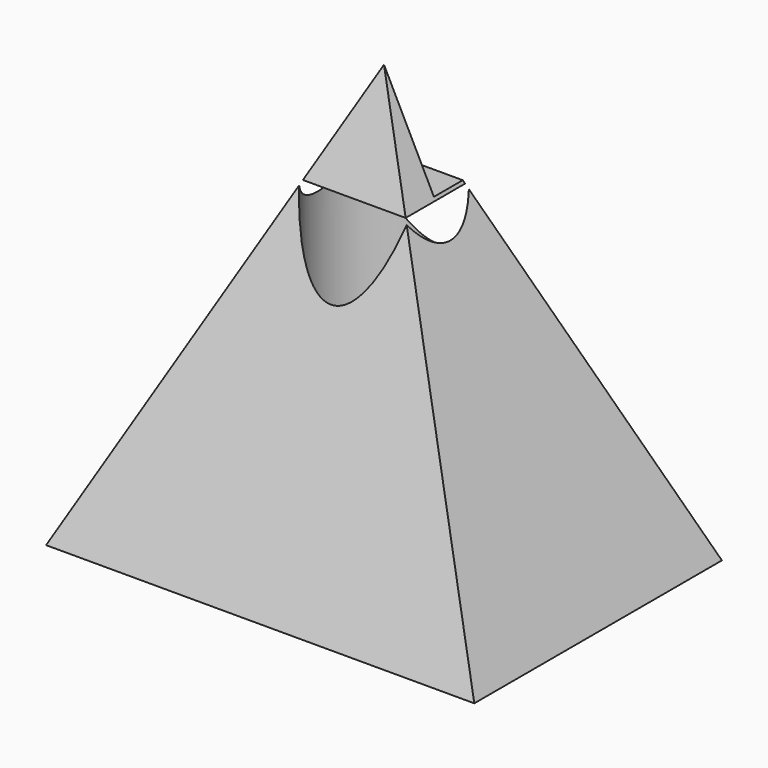
from build123d import *

# Parameters (mm, degrees)
F0_W     = 50.62244
F0_H     = 36.592252
F4_W     = 49.864054
F4_H     = 33.369102
F5_DEPTH = 127
F6_R     = 7.845979
F7_DEPTH = 38.608


with BuildPart() as f3:
    # F0 (on Top) → F3 section 0
    with BuildSketch(Plane.XY, mode=Mode.PRIVATE) as f3_s0:
        Rectangle(F0_W, F0_H)
    loft([Vertex(0, 0, 50.8), f3_s0.sketch])

    # F4 (on Front) → F5 (cut)
    with BuildSketch(Plane.XZ):
        with Locations((0, 55.646766)):
            Rectangle(F4_W, F4_H)
    extrude(amount=-F5_DEPTH, mode=Mode.SUBTRACT)

    # F6 (on face) → F7 (cut)
    with BuildSketch(Plane(origin=(0, 0, 0), x_dir=(1, 0, 0), z_dir=(0, 0, -1))):
        Circle(F6_R)
    extrude(amount=-F7_DEPTH, mode=Mode.SUBTRACT)


solid = f3.part
